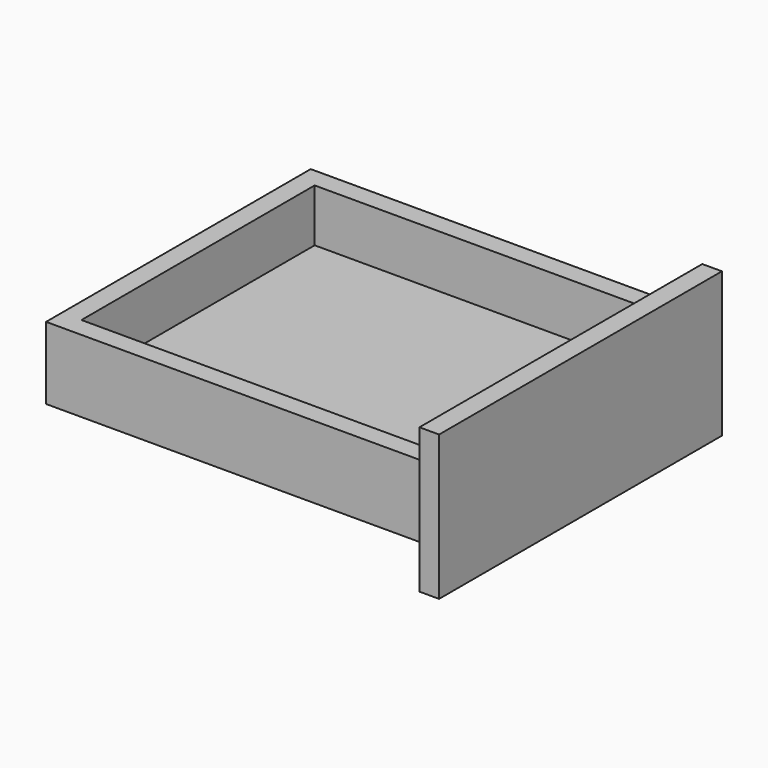
from build123d import *

# Parameters (mm, degrees)
F0_W      = 370
F0_H      = 320
F1_DEPTH  = 70
F1_FACE_W = 370
F1_FACE_H = 320
F2_DEPTH  = 51
F3_W      = 332
F3_H      = 282
F4_DEPTH  = 51
F5_W      = 342
F5_H      = 140
F6_DEPTH  = 19


with BuildPart() as f1:
    # F0 (on Top) → F1 (new body)
    with BuildSketch(Plane.XY):
        Rectangle(F0_W, F0_H)
    extrude(amount=F1_DEPTH)

    # F1_face (on face) → F2 (join)
    with BuildSketch(Plane.XY.offset(70)):
        Rectangle(F1_FACE_W, F1_FACE_H)
    extrude(amount=-F2_DEPTH)

    # F3 (on face) → F4 (cut)
    with BuildSketch(Plane.XY.offset(70)):
        Rectangle(F3_W, F3_H)
    extrude(amount=-F4_DEPTH, mode=Mode.SUBTRACT)

    # F5 (on face) → F6 (join)
    with BuildSketch(Plane.YZ.offset(185)):
        with Locations((0, 35)):
            Rectangle(F5_W, F5_H)
    extrude(amount=F6_DEPTH)


solid = f1.part
